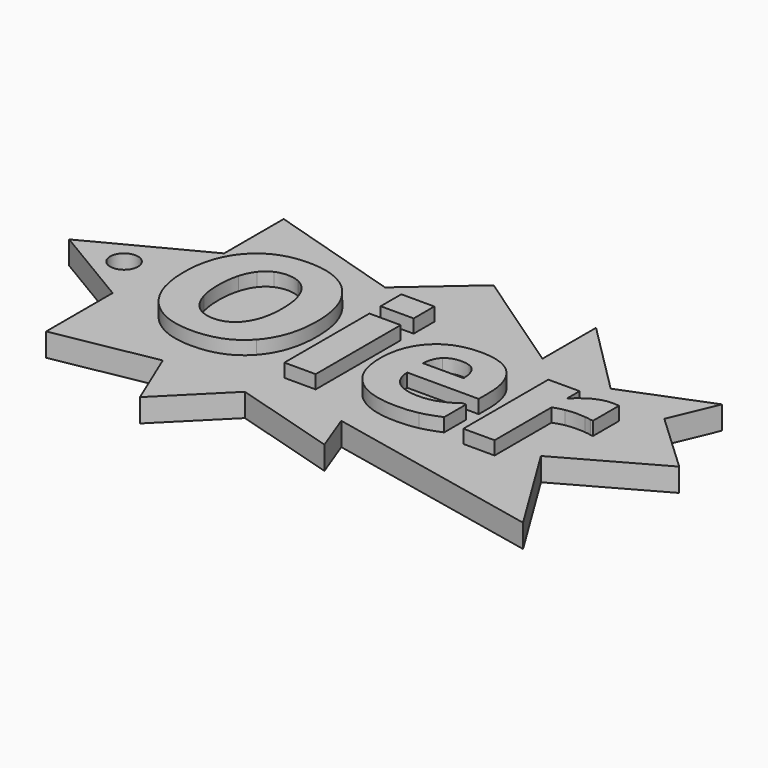
from build123d import *

# Parameters (mm, degrees)
CYLINDER_R       = 3
CYLINDER_DEPTH   = 10
EXTRUDE001_DEPTH = 4
EXTRUDE_DEPTH    = 4
EXTRUDE005_DEPTH = 4
EXTRUDE004_DEPTH = 4
EXTRUDE003_DEPTH = 4
EXTRUDE006_DEPTH = 4
EXTRUDE002_DEPTH = 4
PAD_DEPTH        = 5


with BuildPart() as cilindro:
    # Cylinder → Cylinder (new body)
    with BuildSketch(Plane(origin=(-54, 0, -2), x_dir=(1, 0, 0), z_dir=(0, 0, 1))):
        Circle(CYLINDER_R)
    extrude(amount=CYLINDER_DEPTH)


with BuildPart() as extrude001:
    # path58001 → Extrude001 (new body)
    with BuildSketch(Plane(origin=(-25.911489, -0.70151, 0), x_dir=(0, 1, 0), z_dir=(0, 0, 1))):
        with BuildLine():
            add(Edge.make_bspline(
                [(-7.704977, -4.842509), (-6.317065, -5.891563), (-4.43929, -6.397364)],
                knots=[0, 0, 0, 1, 1, 1], degree=2))
            add(Edge.make_bspline(
                [(-4.43929, -6.397364), (-2.541117, -6.903154), (0.010205, -6.903154)],
                knots=[0, 0, 0, 1, 1, 1], degree=2))
            add(Edge.make_bspline(
                [(0.010205, -6.903154), (2.745219, -6.903154), (4.663802, -6.322426)],
                knots=[0, 0, 0, 1, 1, 1], degree=2))
            add(Edge.make_bspline(
                [(4.663802, -6.322426), (6.582396, -5.741698), (7.766204, -4.805045)],
                knots=[0, 0, 0, 1, 1, 1], degree=2))
            add(Edge.make_bspline(
                [(7.766204, -4.805045), (8.990842, -3.849659), (9.541922, -2.594534)],
                knots=[0, 0, 0, 1, 1, 1], degree=2))
            add(Edge.make_bspline(
                [(9.541922, -2.594534), (10.093014, -1.358151), (10.093014, -0.009366)],
                knots=[0, 0, 0, 1, 1, 1], degree=2))
            add(Edge.make_bspline(
                [(10.093014, -0.009366), (10.093014, 1.358151), (9.562332, 2.575802)],
                knots=[0, 0, 0, 1, 1, 1], degree=2))
            add(Edge.make_bspline(
                [(9.562332, 2.575802), (9.03166, 3.774722), (7.807033, 4.786313)],
                knots=[0, 0, 0, 1, 1, 1], degree=2))
            add(Edge.make_bspline(
                [(7.807033, 4.786313), (6.664043, 5.722967), (4.643393, 6.322426)],
                knots=[0, 0, 0, 1, 1, 1], degree=2))
            add(Edge.make_bspline(
                [(4.643393, 6.322426), (2.643163, 6.903154), (-0.010205, 6.903154)],
                knots=[0, 0, 0, 1, 1, 1], degree=2))
            add(Edge.make_bspline(
                [(-0.010205, 6.903154), (-2.72481, 6.903154), (-4.643404, 6.341158)],
                knots=[0, 0, 0, 1, 1, 1], degree=2))
            add(Edge.make_bspline(
                [(-4.643404, 6.341158), (-6.541577, 5.76044), (-7.745805, 4.823777)],
                knots=[0, 0, 0, 1, 1, 1], degree=2))
            add(Edge.make_bspline(
                [(-7.745805, 4.823777), (-8.950023, 3.887123), (-9.521513, 2.632008)],
                knots=[0, 0, 0, 1, 1, 1], degree=2))
            add(Edge.make_bspline(
                [(-9.521513, 2.632008), (-10.093014, 1.376883), (-10.093014, -0.009366)],
                knots=[0, 0, 0, 1, 1, 1], degree=2))
            add(Edge.make_bspline(
                [(-10.093014, -0.009366), (-10.093014, -1.395614), (-9.521513, -2.65074)],
                knots=[0, 0, 0, 1, 1, 1], degree=2))
            add(Edge.make_bspline(
                [(-9.521513, -2.65074), (-8.929614, -3.905855), (-7.704977, -4.842509)],
                knots=[0, 0, 0, 1, 1, 1], degree=2))
        make_face()
    extrude(amount=EXTRUDE001_DEPTH)


with BuildPart() as cut:
    # path58 → Extrude (new body)
    with BuildSketch(Plane(origin=(-25.911489, -0.70151, 0), x_dir=(0, -1, 0), z_dir=(0, 0, -1))):
        with BuildLine():
            add(Edge.make_bspline(
                [(0.010205, -14.377671), (7.276362, -14.377671), (11.562572, -10.556109)],
                knots=[0, 0, 0, 1, 1, 1], degree=2))
            add(Edge.make_bspline(
                [(11.562572, -10.556109), (15.828374, -6.734557), (15.828374, 0.009366)],
                knots=[0, 0, 0, 1, 1, 1], degree=2))
            add(Edge.make_bspline(
                [(15.828374, 0.009366), (15.828374, 6.734557), (11.562572, 10.556119)],
                knots=[0, 0, 0, 1, 1, 1], degree=2))
            add(Edge.make_bspline(
                [(11.562572, 10.556119), (7.276362, 14.377671), (0.010205, 14.377671)],
                knots=[0, 0, 0, 1, 1, 1], degree=2))
            add(Edge.make_bspline(
                [(0.010205, 14.377671), (-7.31718, 14.377671), (-11.562572, 10.556119)],
                knots=[0, 0, 0, 1, 1, 1], degree=2))
            add(Edge.make_bspline(
                [(-11.562572, 10.556119), (-15.828374, 6.734557), (-15.828374, 0.009366)],
                knots=[0, 0, 0, 1, 1, 1], degree=2))
            add(Edge.make_bspline(
                [(-15.828374, 0.009366), (-15.828374, -6.697094), (-11.562572, -10.537377)],
                knots=[0, 0, 0, 1, 1, 1], degree=2))
            add(Edge.make_bspline(
                [(-11.562572, -10.537377), (-7.31718, -14.377671), (0.010205, -14.377671)],
                knots=[0, 0, 0, 1, 1, 1], degree=2))
        make_face()
    extrude(amount=-EXTRUDE_DEPTH)

    # Cut: cut Extrude001
    add(extrude001.part, mode=Mode.SUBTRACT)


with BuildPart() as extrude005:
    # path62001 → Extrude005 (new body)
    with BuildSketch(Plane(origin=(16.312963, 0.829276, 0), x_dir=(0, 1, 0), z_dir=(0, 0, 1))):
        with BuildLine():
            add(Edge.make_bspline(
                [(-2.316594, -4.374187), (-0.010205, -4.317981), (1.153195, -3.325132)],
                knots=[0, 0, 0, 1, 1, 1], degree=2))
            add(Edge.make_bspline(
                [(1.153195, -3.325132), (2.316594, -2.332273), (2.316594, -0.234163)],
                knots=[0, 0, 0, 1, 1, 1], degree=2))
            add(Edge.make_bspline(
                [(2.316594, -0.234163), (2.316594, 1.714081), (1.214433, 2.969197)],
                knots=[0, 0, 0, 1, 1, 1], degree=2))
            add(Edge.make_bspline(
                [(1.214433, 2.969197), (0.112261, 4.224322), (-2.316594, 4.374187)],
                knots=[0, 0, 0, 1, 1, 1], degree=2))
            add(Edge.make_bspline(
                [(-2.316594, 4.374187), (-2.316594, -4.374187)],
                knots=[0, 0, 9.1211, 9.1211], degree=1))
        make_face()
    extrude(amount=EXTRUDE005_DEPTH)


with BuildPart() as cut001:
    # path62 → Extrude004 (new body)
    with BuildSketch(Plane(origin=(16.266128, -4.385612, 0), x_dir=(0, -1, 0), z_dir=(0, 0, -1))):
        with BuildLine():
            add(Edge.make_bspline(
                [(1.408326, -11.127471), (1.408326, 4.30862)],
                knots=[0, 0, 16.09375, 16.09375], degree=1))
            add(Edge.make_bspline(
                [(1.408326, 4.30862), (4.102522, 4.158755), (5.531263, 2.435303)],
                knots=[0, 0, 0, 1, 1, 1], degree=2))
            add(Edge.make_bspline(
                [(5.531263, 2.435303), (6.959993, 0.693119), (6.959993, -2.678837)],
                knots=[0, 0, 0, 1, 1, 1], degree=2))
            add(Edge.make_bspline(
                [(6.959993, -2.678837), (6.959993, -4.814411), (6.123162, -6.818861)],
                knots=[0, 0, 0, 1, 1, 1], degree=2))
            add(Edge.make_bspline(
                [(6.123162, -6.818861), (5.286331, -8.823301), (4.327034, -9.984757)],
                knots=[0, 0, 0, 1, 1, 1], degree=2))
            add(Edge.make_bspline(
                [(4.327034, -9.984757), (4.327034, -10.734082)],
                knots=[0, 0, 0.78125, 0.78125], degree=1))
            add(Edge.make_bspline(
                [(4.327034, -10.734082), (10.225679, -10.734082)],
                knots=[0, 0, 5.64453, 5.64453], degree=1))
            add(Edge.make_bspline(
                [(10.225679, -10.734082), (11.225794, -8.448643), (11.674828, -6.425462)],
                knots=[0, 0, 0, 1, 1, 1], degree=2))
            add(Edge.make_bspline(
                [(11.674828, -6.425462), (12.123863, -4.402289), (12.123863, -1.948245)],
                knots=[0, 0, 0, 1, 1, 1], degree=2))
            add(Edge.make_bspline(
                [(12.123863, -1.948245), (12.123863, 4.383548), (9.021461, 7.755514)],
                knots=[0, 0, 0, 1, 1, 1], degree=2))
            add(Edge.make_bspline(
                [(9.021461, 7.755514), (5.919059, 11.127471), (0.183699, 11.127471)],
                knots=[0, 0, 0, 1, 1, 1], degree=2))
            add(Edge.make_bspline(
                [(0.183699, 11.127471), (-5.490434, 11.127471), (-8.796938, 7.942843)],
                knots=[0, 0, 0, 1, 1, 1], degree=2))
            add(Edge.make_bspline(
                [(-8.796938, 7.942843), (-12.123863, 4.739474), (-12.123863, -0.824262)],
                knots=[0, 0, 0, 1, 1, 1], degree=2))
            add(Edge.make_bspline(
                [(-12.123863, -0.824262), (-12.123863, -5.957135), (-9.286791, -8.542303)],
                knots=[0, 0, 0, 1, 1, 1], degree=2))
            add(Edge.make_bspline(
                [(-9.286791, -8.542303), (-6.47014, -11.127471), (-1.163394, -11.127471)],
                knots=[0, 0, 0, 1, 1, 1], degree=2))
            add(Edge.make_bspline(
                [(-1.163394, -11.127471), (1.408326, -11.127471)],
                knots=[0, 0, 2.46093, 2.46093], degree=1))
        make_face()
    extrude(amount=-EXTRUDE004_DEPTH)

    # Cut001: cut Extrude005
    add(extrude005.part, mode=Mode.SUBTRACT)


with BuildPart() as extrude003:
    # path60001 → Extrude003 (new body)
    with BuildSketch(Plane(origin=(-3.066452, 13.0756, 0), x_dir=(0, -1, 0), z_dir=(0, 0, -1))):
        with BuildLine():
            add(Edge.make_bspline(
                [(2.786038, -3.559295), (2.786038, 3.559295)],
                knots=[0, 0, 7.42188, 7.42188], degree=1))
            add(Edge.make_bspline(
                [(2.786038, 3.559295), (-2.786038, 3.559295)],
                knots=[0, 0, 5.33203, 5.33203], degree=1))
            add(Edge.make_bspline(
                [(-2.786038, 3.559295), (-2.786038, -3.559295)],
                knots=[0, 0, 7.42188, 7.42188], degree=1))
            add(Edge.make_bspline(
                [(-2.786038, -3.559295), (2.786038, -3.559295)],
                knots=[0, 0, 5.33203, 5.33203], degree=1))
        make_face()
    extrude(amount=-EXTRUDE003_DEPTH)


with BuildPart() as extrude006:
    # path64 → Extrude006 (new body)
    with BuildSketch(Plane(origin=(39.776196, -4.395838, 0), x_dir=(0, -1, 0), z_dir=(0, 0, -1))):
        with BuildLine():
            add(Edge.make_bspline(
                [(-4.418897, -7.624381), (-4.418897, -7.024921)],
                knots=[0, 0, 0.625, 0.625], degree=1))
            add(Edge.make_bspline(
                [(-4.418897, -7.024921), (-4.582181, -6.594058), (-4.663828, -5.638673)],
                knots=[0, 0, 0, 1, 1, 1], degree=2))
            add(Edge.make_bspline(
                [(-4.663828, -5.638673), (-4.745444, -4.683278), (-4.745444, -4.046354)],
                knots=[0, 0, 0, 1, 1, 1], degree=2))
            add(Edge.make_bspline(
                [(-4.745444, -4.046354), (-4.745444, -2.6039), (-4.541342, -1.49865)],
                knots=[0, 0, 0, 1, 1, 1], degree=2))
            add(Edge.make_bspline(
                [(-4.541342, -1.49865), (-4.337239, -0.393399), (-3.847386, 0.880458)],
                knots=[0, 0, 0, 1, 1, 1], degree=2))
            add(Edge.make_bspline(
                [(-3.847386, 0.880458), (11.501339, 0.880458)],
                knots=[0, 0, 14.6875, 14.6875], degree=1))
            add(Edge.make_bspline(
                [(11.501339, 0.880458), (11.501339, 7.624381)],
                knots=[0, 0, 7.03125, 7.03125], degree=1))
            add(Edge.make_bspline(
                [(11.501339, 7.624381), (-11.419692, 7.624381)],
                knots=[0, 0, 21.93359, 21.93359], degree=1))
            add(Edge.make_bspline(
                [(-11.419692, 7.624381), (-11.419692, 0.880458)],
                knots=[0, 0, 7.03125, 7.03125], degree=1))
            add(Edge.make_bspline(
                [(-11.419692, 0.880458), (-8.05196, 0.880458)],
                knots=[0, 0, 3.22265, 3.22265], degree=1))
            add(Edge.make_bspline(
                [(-8.05196, 0.880458), (-10.133827, -1.348785), (-10.807373, -2.997299)],
                knots=[0, 0, 0, 1, 1, 1], degree=2))
            add(Edge.make_bspline(
                [(-10.807373, -2.997299), (-11.501339, -4.645814), (-11.501339, -6.032062)],
                knots=[0, 0, 0, 1, 1, 1], degree=2))
            add(Edge.make_bspline(
                [(-11.501339, -6.032062), (-11.501339, -6.387998), (-11.480962, -6.837593)],
                knots=[0, 0, 0, 1, 1, 1], degree=2))
            add(Edge.make_bspline(
                [(-11.480962, -6.837593), (-11.460584, -7.287188), (-11.419723, -7.624381)],
                knots=[0, 0, 0, 1, 1, 1], degree=2))
            add(Edge.make_bspline(
                [(-11.419723, -7.624381), (-4.418897, -7.624381)],
                knots=[0, 0, 6.69923, 6.69923], degree=1))
        make_face()
    extrude(amount=-EXTRUDE006_DEPTH)


with BuildPart() as fusion:
    # path60 → Extrude002 (new body)
    with BuildSketch(Plane(origin=(-3.066447, -4.43664, 0), x_dir=(0, -1, 0), z_dir=(0, 0, -1))):
        with BuildLine():
            add(Edge.make_bspline(
                [(11.460516, -3.371962), (11.460516, 3.371962)],
                knots=[0, 0, 7.03125, 7.03125], degree=1))
            add(Edge.make_bspline(
                [(11.460516, 3.371962), (-11.460516, 3.371962)],
                knots=[0, 0, 21.93359, 21.93359], degree=1))
            add(Edge.make_bspline(
                [(-11.460516, 3.371962), (-11.460516, -3.371962)],
                knots=[0, 0, 7.03125, 7.03125], degree=1))
            add(Edge.make_bspline(
                [(-11.460516, -3.371962), (11.460516, -3.371962)],
                knots=[0, 0, 21.93359, 21.93359], degree=1))
        make_face()
    extrude(amount=-EXTRUDE002_DEPTH)

    # Fusion: union Cut, Cut001, Extrude003, Extrude006
    add(cut.part)
    add(cut001.part)
    add(extrude003.part)
    add(extrude006.part)


with BuildPart() as fusion_1:
    # Fusion placement: moved
    add(fusion.part.moved(Location((0.025005, -0.364427, 3.9))))


with BuildPart() as cut002:
    # Sketch → Pad (new body)
    with BuildSketch(Plane.XY):
        Polygon((-13.789702, 20.082094), (-42.707924, 28.918221), (-42.707924, 12.85254), (-66.27092, 0.535526), (-48.33091, -10.174929), (-48.33091, -28.114935), (-26.374483, -24.098516), (-21.019262, -36.951057), (-8.434481, -24.366276), (14.057469, -31.060308), (10.844337, -22.491947), (57.970318, -32.399117), (45.117771, -11.513737), (65.73539, 0), (52.882862, 12.049258), (57.167038, 22.224184), (38.959278, 14.994628), (23.161358, 30.792545), (23.161358, 16.333435), (0, 32.131351), align=None)
    extrude(amount=PAD_DEPTH)

    # Fusion001: union Fusion
    add(fusion_1.part)

    # Cut002: cut Cilindro
    add(cilindro.part, mode=Mode.SUBTRACT)


solid = cut002.part
